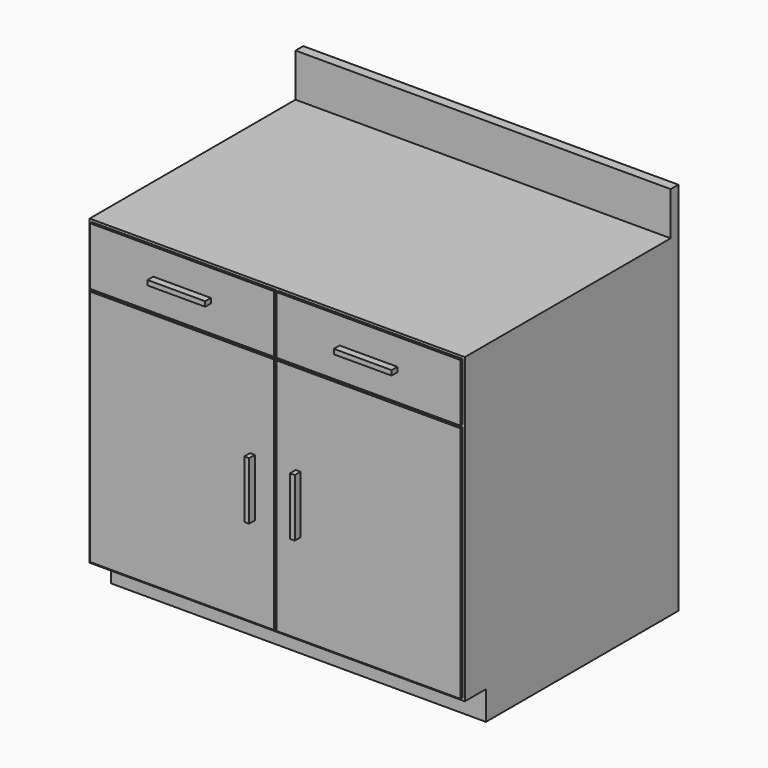
from build123d import *

# Parameters (mm, degrees)
F0_W     = 990.6
F0_H     = 711.2
F1_DEPTH = 990.6
F2_W     = 990.6
F2_H     = 114.3
F3_DEPTH = 685.8
F2_H_2   = 800.1
F2_W_2   = 485.775
F2_H_3   = 628.65
F2_H_4   = 152.4
F4_DEPTH = 6.35
F2_H_5   = 76.2
F5_DEPTH = 76.2
F2_W_3   = 152.4
F2_H_6   = 12.7
F2_W_4   = 12.7
F6_DEPTH = 19.05
F7_W     = 838.2
F7_H     = 482.6
F8_DEPTH = 787.4


with BuildPart() as f1:
    # F0 (on Top) → F1 (new body)
    with BuildSketch(Plane.XY):
        Rectangle(F0_W, F0_H)
    extrude(amount=F1_DEPTH)

    # F2 (on face) → F3 (cut)
    with BuildSketch(Plane.XZ.offset(355.6)):
        with Locations((0, 933.45)):
            Rectangle(F2_W, F2_H)
    extrude(amount=-F3_DEPTH, mode=Mode.SUBTRACT)

    # F2 (on face) → F4 (cut)
    with BuildSketch(Plane.XZ.offset(355.6)):
        with Locations((0, 476.25)):
            Rectangle(F2_W, F2_H_2)
        with Locations((-246.0625, 396.875)):
            Rectangle(F2_W_2, F2_H_3, mode=Mode.SUBTRACT)
        with Locations((246.0625, 396.875)):
            Rectangle(F2_W_2, F2_H_3, mode=Mode.SUBTRACT)
        with Locations((-246.0625, 793.75)):
            Rectangle(F2_W_2, F2_H_4, mode=Mode.SUBTRACT)
        with Locations((246.0625, 793.75)):
            Rectangle(F2_W_2, F2_H_4, mode=Mode.SUBTRACT)
    extrude(amount=-F4_DEPTH, mode=Mode.SUBTRACT)

    # F2 (on face) → F5 (cut)
    with BuildSketch(Plane.XZ.offset(355.6)):
        with Locations((0, 38.1)):
            Rectangle(F2_W, F2_H_5)
    extrude(amount=-F5_DEPTH, mode=Mode.SUBTRACT)

    # F2 (on face) → F6 (join)
    with BuildSketch(Plane.XZ.offset(355.6)):
        with Locations((-246.0625, 793.75)):
            Rectangle(F2_W_3, F2_H_6)
        with Locations((246.0625, 793.75)):
            Rectangle(F2_W_3, F2_H_6)
        with Locations((60.325, 396.875)):
            Rectangle(F2_W_4, F2_H_4)
        with Locations((-60.325, 396.875)):
            Rectangle(F2_W_4, F2_H_4)
    extrude(amount=F6_DEPTH)

    # F7 (on face) → F8 (cut)
    with BuildSketch(Plane(origin=(0, 0, 0), x_dir=(1, 0, 0), z_dir=(0, 0, -1))):
        with Locations((0, -38.1)):
            Rectangle(F7_W, F7_H)
    extrude(amount=-F8_DEPTH, mode=Mode.SUBTRACT)


solid = f1.part
